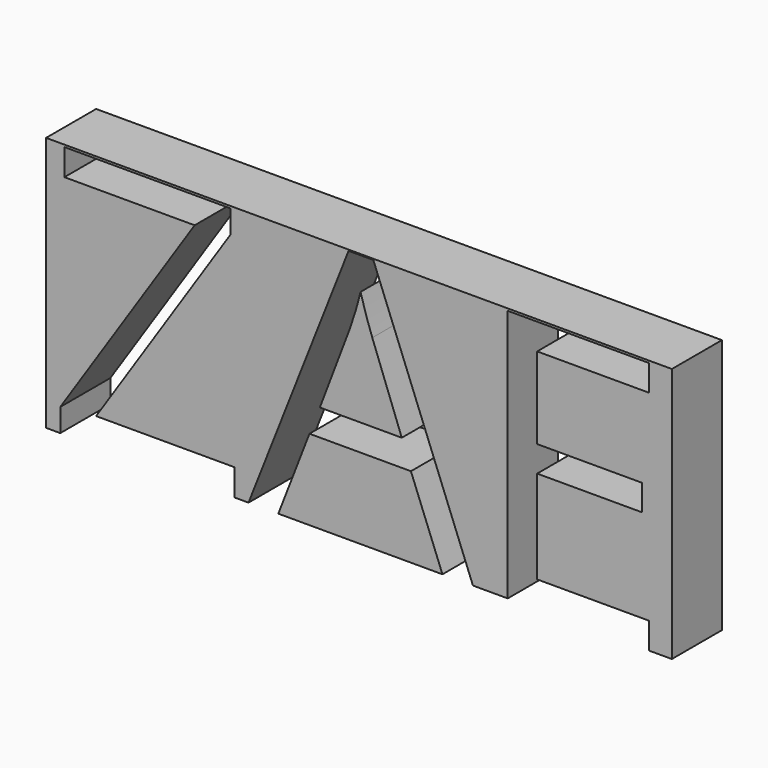
from build123d import *

# Parameters (mm, degrees)
F1_DEPTH = 12.7


with BuildPart() as f1:
    # F0 (on Front) → F1 (new body)
    with BuildSketch(Plane.XZ):
        Polygon((-25.4, 19.05), (-25.4, -32.7711281325), (-22.5210484371, -32.7711281325), (-22.5210484371, -28.0928318427), (4.7502700788, 13.2358673515), (-21.6776055964, 13.2358673515), (-21.6776055964, 18.6114097228), (12.0263703179, 18.6114097228), (12.0263703179, 13.9331134331), (-15.244948198, -27.3618480475), (12.8023377313, -27.3618480475), (12.8023377313, -32.7711281325), (15.6812892943, -32.7711281325), (35.9913928983, 18.8250819091), (41.0183122288, 18.8250819091), (61.2272026919, -32.7711281325), (68.2896307447, -32.7711281325), (68.2896307447, 18.6114097228), (96.9329496148, 18.6114097228), (96.9329496148, 13.3033427787), (74.2612060568, 13.3033427787), (74.2612060568, -3.250628708), (95.5609492606, -3.250628708), (95.5609492606, -8.5249579385), (74.2612060568, -8.5249579385), (74.2612060568, -27.4293234747), (96.9329496148, -27.4293234747), (96.9329496148, -32.7711281325), (101.6, -32.7711281325), (101.6, 19.05), align=None)
    extrude(amount=F1_DEPTH)


with BuildPart() as f1b:
    # F0 (on Front) → F1, piece 2 (new body)
    with BuildSketch(Plane.XZ):
        Polygon((28.0517842912, -16.430828832), (21.7315859382, -32.7711281325), (55.0419551935, -32.7711281325), (48.6430355087, -16.430828832), align=None)
    extrude(amount=F1_DEPTH)


with BuildPart() as f1c:
    # F0 (on Front) → F1, piece 3 (new body)
    with BuildSketch(Plane.XZ):
        with BuildLine():
            Line((30.1660143452, -11.0552864606), (46.7874612592, -11.0552864606))
            Line((46.7874612592, -11.0552864606), (40.8046400425, 4.8689143717))
            add(Edge.make_bspline(
                [(40.8046400425, 4.8689143717), (39.6463118746, 7.8940626937), (38.4205082795, 12.2799654653)],
                knots=[0, 0, 0, 1, 1, 1], degree=2))
            add(Edge.make_bspline(
                [(38.4205082795, 12.2799654653), (37.644540866, 8.9061941025), (36.2050650846, 4.8689143717)],
                knots=[0, 0, 0, 1, 1, 1], degree=2))
            Line((36.2050650846, 4.8689143717), (30.1660143452, -11.0552864606))
        make_face()
    extrude(amount=F1_DEPTH)


solid = Compound([f1.part, f1b.part, f1c.part])
